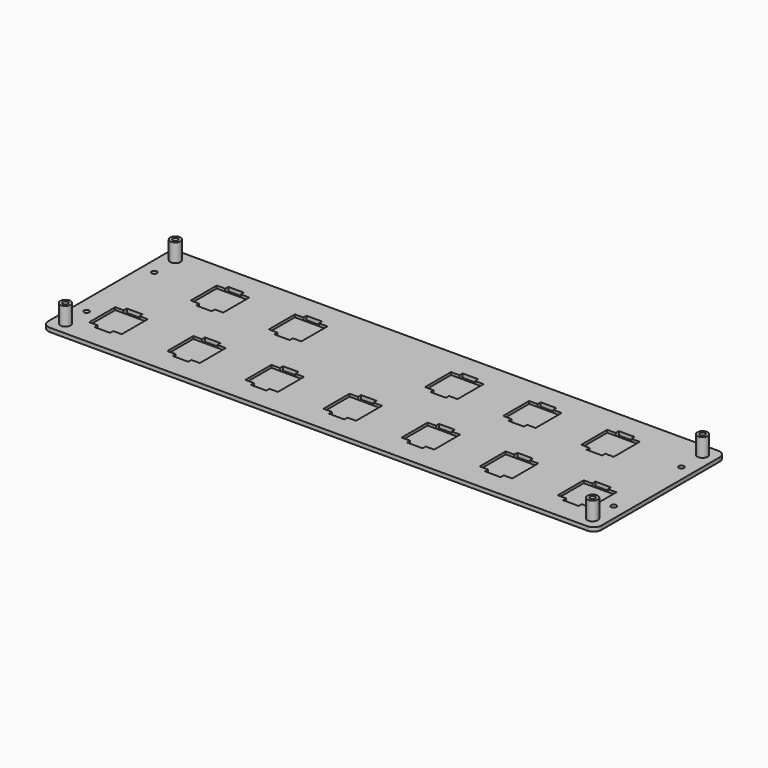
from build123d import *

# Parameters (mm, degrees)
SKETCH001_W     = 212.5
SKETCH001_H     = 62.8
PAD_DEPTH       = 1.5
SKETCH_W        = 12.5
SKETCH_H        = 12.5
POCKET_DEPTH    = 1
SKETCH002_W     = 6
SKETCH002_H     = 1.5
POCKET001_DEPTH = 1.501
SKETCH003_R     = 2
SKETCH003_R_2   = 1
PAD001_DEPTH    = 7
SKETCH004_R     = 1
POCKET002_DEPTH = 1.4
FILLET_R        = 3


with BuildPart() as part:
    # Sketch001 → Pad (new body)
    with BuildSketch(Plane.XY):
        with Locations((90, 15)):
            Rectangle(SKETCH001_W, SKETCH001_H)
    extrude(amount=-PAD_DEPTH)

    # Sketch → Pocket (cut)
    with BuildSketch(Plane.XY):
        Rectangle(SKETCH_W, SKETCH_H)
        with Locations((30, 0)):
            Rectangle(SKETCH_W, SKETCH_H)
        with Locations((60, 0)):
            Rectangle(SKETCH_W, SKETCH_H)
        with Locations((90, 0)):
            Rectangle(SKETCH_W, SKETCH_H)
        with Locations((120, 0)):
            Rectangle(SKETCH_W, SKETCH_H)
        with Locations((150, 0)):
            Rectangle(SKETCH_W, SKETCH_H)
        with Locations((180, 0)):
            Rectangle(SKETCH_W, SKETCH_H)
        with Locations((15, 30)):
            Rectangle(SKETCH_W, SKETCH_H)
        with Locations((45, 30)):
            Rectangle(SKETCH_W, SKETCH_H)
        with Locations((105, 30)):
            Rectangle(SKETCH_W, SKETCH_H)
        with Locations((135, 30)):
            Rectangle(SKETCH_W, SKETCH_H)
        with Locations((165, 30)):
            Rectangle(SKETCH_W, SKETCH_H)
    extrude(amount=-POCKET_DEPTH, mode=Mode.SUBTRACT)

    # Sketch002 (on Face4 of Pocket) → Pocket001 (cut, through all)
    with BuildSketch(Plane.XY):
        with Locations((180, 7)):
            Rectangle(SKETCH002_W, SKETCH002_H)
        with Locations((180, -7)):
            Rectangle(SKETCH002_W, SKETCH002_H)
        with Locations((150, -7)):
            Rectangle(SKETCH002_W, SKETCH002_H)
        with Locations((150, 7)):
            Rectangle(SKETCH002_W, SKETCH002_H)
        with Locations((120, -7)):
            Rectangle(SKETCH002_W, SKETCH002_H)
        with Locations((120, 7)):
            Rectangle(SKETCH002_W, SKETCH002_H)
        with Locations((90, -7)):
            Rectangle(SKETCH002_W, SKETCH002_H)
        with Locations((90, 7)):
            Rectangle(SKETCH002_W, SKETCH002_H)
        with Locations((60, -7)):
            Rectangle(SKETCH002_W, SKETCH002_H)
        with Locations((60, 7)):
            Rectangle(SKETCH002_W, SKETCH002_H)
        with Locations((90, -7)):
            Rectangle(SKETCH002_W, SKETCH002_H)
        with Locations((90, 7)):
            Rectangle(SKETCH002_W, SKETCH002_H)
        with Locations((60, -7)):
            Rectangle(SKETCH002_W, SKETCH002_H)
        with Locations((60, 7)):
            Rectangle(SKETCH002_W, SKETCH002_H)
        with Locations((165, 37)):
            Rectangle(SKETCH002_W, SKETCH002_H)
        with Locations((165, 23)):
            Rectangle(SKETCH002_W, SKETCH002_H)
        with Locations((135, 37)):
            Rectangle(SKETCH002_W, SKETCH002_H)
        with Locations((135, 23)):
            Rectangle(SKETCH002_W, SKETCH002_H)
        with Locations((30, 7)):
            Rectangle(SKETCH002_W, SKETCH002_H)
        with Locations((30, -7)):
            Rectangle(SKETCH002_W, SKETCH002_H)
        with Locations((0, 7)):
            Rectangle(SKETCH002_W, SKETCH002_H)
        with Locations((0, -7)):
            Rectangle(SKETCH002_W, SKETCH002_H)
        with Locations((105, 37)):
            Rectangle(SKETCH002_W, SKETCH002_H)
        with Locations((105, 23)):
            Rectangle(SKETCH002_W, SKETCH002_H)
        with Locations((45, 37)):
            Rectangle(SKETCH002_W, SKETCH002_H)
        with Locations((45, 23)):
            Rectangle(SKETCH002_W, SKETCH002_H)
        with Locations((15, 23)):
            Rectangle(SKETCH002_W, SKETCH002_H)
        with Locations((15, 37)):
            Rectangle(SKETCH002_W, SKETCH002_H)
    extrude(amount=-POCKET001_DEPTH, mode=Mode.SUBTRACT)

    # Sketch003 (on Face4 of Pocket001) → Pad001 (join)
    with BuildSketch(Plane.XY):
        with Locations((-11.25, 41.4)):
            Circle(SKETCH003_R)
        with Locations((-11.25, 41.4)):
            Circle(SKETCH003_R_2, mode=Mode.SUBTRACT)
        with Locations((-11.25, -11.4)):
            Circle(SKETCH003_R)
        with Locations((-11.25, -11.4)):
            Circle(SKETCH003_R_2, mode=Mode.SUBTRACT)
        with Locations((191.25, -11.4)):
            Circle(SKETCH003_R)
        with Locations((191.25, -11.4)):
            Circle(SKETCH003_R_2, mode=Mode.SUBTRACT)
        with Locations((191.25, 41.4)):
            Circle(SKETCH003_R)
        with Locations((191.25, 41.4)):
            Circle(SKETCH003_R_2, mode=Mode.SUBTRACT)
    extrude(amount=PAD001_DEPTH)

    # Sketch004 (on Face4 of Pad001) → Pocket002 (cut)
    with BuildSketch(Plane.XY):
        with Locations((-11.25, -1.25)):
            Circle(SKETCH004_R)
        with Locations((-11.25, 31.25)):
            Circle(SKETCH004_R)
        with Locations((191.25, 31.25)):
            Circle(SKETCH004_R)
        with Locations((191.25, -1.25)):
            Circle(SKETCH004_R)
    extrude(amount=-POCKET002_DEPTH, mode=Mode.SUBTRACT)

    # Fillet
    fillet_edges = [part.edges().sort_by_distance(p)[0] for p in [
        (196.25, 46.4, -0.75),
        (196.25, -16.4, -0.75),
        (-16.25, -16.4, -0.75),
        (-16.25, 46.4, -0.75),
    ]]
    fillet(fillet_edges, radius=FILLET_R)


solid = part.part
